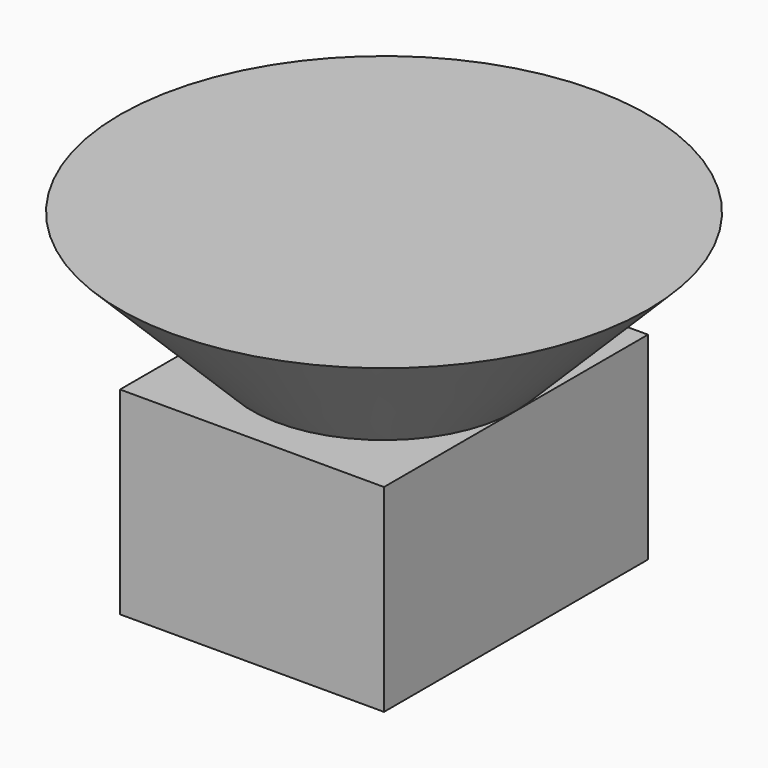
from build123d import *

# Parameters (mm, degrees)
F0_W     = 101.6
F0_H     = 76.2
F1_DEPTH = 127
F3_DEPTH = 50.8
F3_TAPER = -45


with BuildPart() as f1:
    # F0 (on Front) → F1 (new body)
    with BuildSketch(Plane.XZ):
        Rectangle(F0_W, F0_H)
    extrude(amount=F1_DEPTH)


with BuildPart() as f3:
    # F2 (on face) → F3 (new body)
    with BuildSketch(Plane.XY.offset(38.1)):
        with BuildLine():
            ThreePointArc((-50.8, -63.5), (0, -114.3), (50.8, -63.5))
            ThreePointArc((50.8, -63.5), (0, -12.7), (-50.8, -63.5))
        make_face()
    extrude(amount=F3_DEPTH, taper=F3_TAPER)


solid = Compound([f1.part, f3.part])
